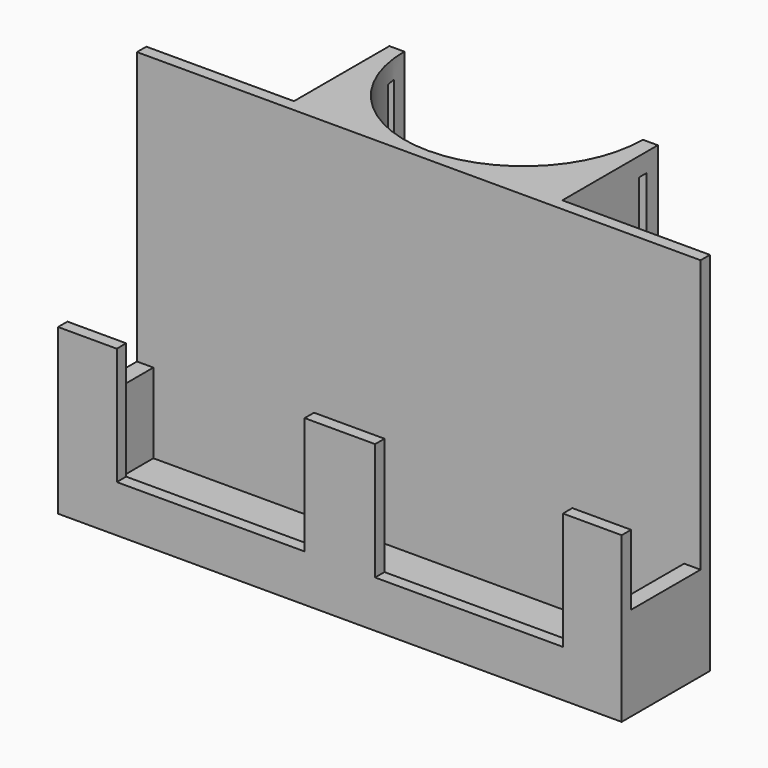
from build123d import *

# Parameters (mm, degrees)
F0_W      = 115
F0_H      = 75
F1_DEPTH  = 2.5
F2_W      = 115
F2_H      = 23.5
F3_DEPTH  = 3
F4_W      = 40
F4_H      = 10
F5_DEPTH  = 2.5
F6_W      = 23.5
F6_H      = 20
F7_DEPTH  = 2.5
F8_W      = 23.5
F8_H      = 20
F9_DEPTH  = 2.5
F10_W     = 2.5
F10_H     = 15
F10_H_2   = 58
F11_DEPTH = 2.5
F12_W     = 2.5
F12_H     = 15
F12_H_2   = 58
F13_DEPTH = 2.5
F14_W     = 57.15
F14_H     = 78
F15_DEPTH = 25.4
F16_R     = 25.4
F17_DEPTH = 78
F19_DEPTH = 1
F20_DEPTH = 1
F18_W     = 2
F18_H     = 70
F21_DEPTH = 57.15


with BuildPart() as f1:
    # F0 (on Front) → F1 (new body)
    with BuildSketch(Plane.XZ):
        Rectangle(F0_W, F0_H)
    extrude(amount=-F1_DEPTH)

    # F2 (on face) → F3 (join)
    with BuildSketch(Plane(origin=(0, 0, -37.5), x_dir=(1, 0, 0), z_dir=(0, 0, -1))):
        with Locations((0, 9.25)):
            Rectangle(F2_W, F2_H)
    extrude(amount=F3_DEPTH)

    # F4 (on face) → F5 (join)
    with BuildSketch(Plane.XZ.offset(21)):
        Polygon((-57.5, -5.5), (-57.5, -40.5), (-47.5, -40.5), (-47.5, -30.5), (-47.5, -5.5), align=None)
        with Locations((-27.5, -35.5)):
            Rectangle(F4_W, F4_H)
        Polygon((-7.5, -30.5), (-7.5, -40.5), (0, -40.5), (0, -5.5), (-7.5, -5.5), align=None)
        Polygon((0, -5.5), (0, -40.5), (7.5, -40.5), (7.5, -30.5), (7.5, -5.5), align=None)
        with Locations((27.5, -35.5)):
            Rectangle(F4_W, F4_H)
        Polygon((47.5, -30.5), (47.5, -40.5), (57.5, -40.5), (57.5, -5.5), (47.5, -5.5), align=None)
    extrude(amount=-F5_DEPTH)

    # F6 (on face) → F7 (join)
    with BuildSketch(Plane(origin=(-57.5, 0, 0), x_dir=(0, -1, 0), z_dir=(-1, 0, 0))):
        with Locations((9.25, -30.5)):
            Rectangle(F6_W, F6_H)
    extrude(amount=F7_DEPTH)

    # F8 (on face) → F9 (join)
    with BuildSketch(Plane.YZ.offset(57.5)):
        with Locations((-9.25, -30.5)):
            Rectangle(F8_W, F8_H)
    extrude(amount=F9_DEPTH)

    # F10 (on face) → F11 (join)
    with BuildSketch(Plane.YZ.offset(57.5)):
        with Locations((-19.75, -13)):
            Rectangle(F10_W, F10_H)
        with Locations((1.25, 8.5)):
            Rectangle(F10_W, F10_H_2)
    extrude(amount=F11_DEPTH)

    # F12 (on face) → F13 (join)
    with BuildSketch(Plane(origin=(-57.5, 0, 0), x_dir=(0, -1, 0), z_dir=(-1, 0, 0))):
        with Locations((19.75, -13)):
            Rectangle(F12_W, F12_H)
        with Locations((-1.25, 8.5)):
            Rectangle(F12_W, F12_H_2)
    extrude(amount=F13_DEPTH)

    # F14 (on face) → F15 (join)
    with BuildSketch(Plane(origin=(0, 2.5, 0), x_dir=(-1, 0, 0), z_dir=(0, 1, 0))):
        with Locations((0, -1.5)):
            Rectangle(F14_W, F14_H)
    extrude(amount=F15_DEPTH)

    # F16 (on face) → F17 (cut)
    with BuildSketch(Plane.XY.offset(37.5)):
        with Locations((0, 27.9)):
            Circle(F16_R)
    extrude(amount=-F17_DEPTH, mode=Mode.SUBTRACT)

    # F6 (on face) → F19 (join)
    with BuildSketch(Plane(origin=(-57.5, 0, 0), x_dir=(0, -1, 0), z_dir=(-1, 0, 0))):
        with Locations((9.25, -30.5)):
            Rectangle(F6_W, F6_H)
    extrude(amount=-F19_DEPTH)

    # F8 (on face) → F20 (join)
    with BuildSketch(Plane.YZ.offset(57.5)):
        with Locations((-9.25, -30.5)):
            Rectangle(F8_W, F8_H)
    extrude(amount=-F20_DEPTH)

    # F18 (on face) → F21 (cut)
    with BuildSketch(Plane.YZ.offset(28.575)):
        with Locations((23.9, -1.5)):
            Rectangle(F18_W, F18_H)
    extrude(amount=-F21_DEPTH, mode=Mode.SUBTRACT)


solid = f1.part
